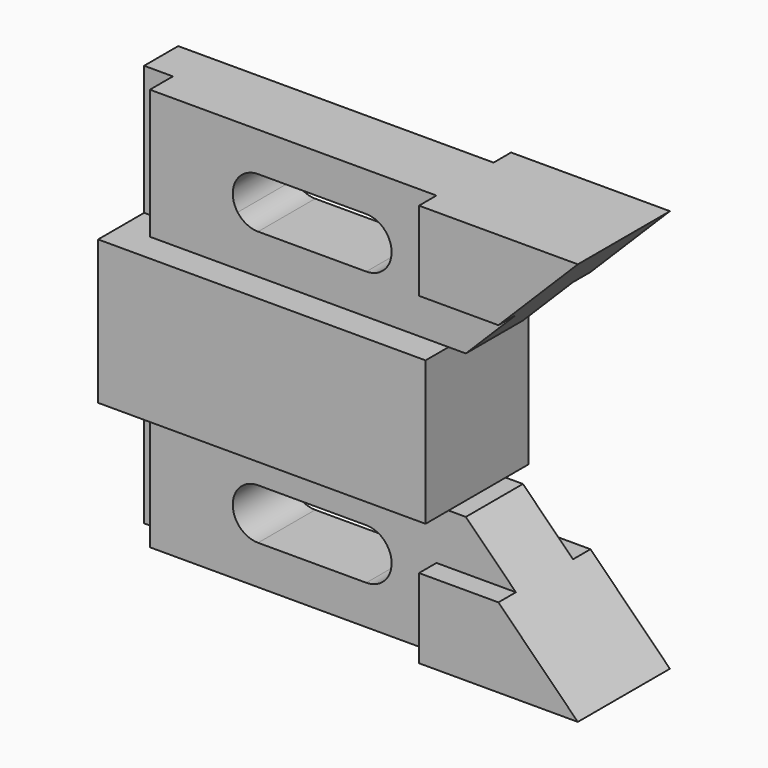
from build123d import *

# Parameters (mm, degrees)
F1_DEPTH  = 52.324
F3_DEPTH  = 26.925
F2_W      = 6.35
F2_H      = 17.526
F2_H_2    = 28.575
F2_H_3    = 11.049
F4_DEPTH  = 11.176
F6_DEPTH  = 26.925
F7_DEPTH  = 1.525
F8_W      = 69.596
F8_H      = 28.575
F9_DEPTH  = 6.35
F10_W     = 69.596
F10_H     = 28.575
F11_DEPTH = 6.35


with BuildPart() as f1:
    # F0 (on Right) → F1 (new body, symmetric)
    with BuildSketch(Plane.YZ):
        Polygon((-7.874, 26.924), (-7.874, 15.875), (7.874, 15.875), (7.874, 26.924), (12.7, 26.924), (12.7, 44.45), (-12.7, 44.45), (-12.7, 26.924), align=None)
        Polygon((-7.874, 15.875), (-14.224, 15.875), (-14.224, -15.875), (-7.874, -15.875), (7.874, -15.875), (14.224, -15.875), (14.224, 15.875), (7.874, 15.875), align=None)
        Polygon((7.874, -15.875), (-7.874, -15.875), (-7.874, -26.924), (-12.7, -26.924), (-12.7, -44.45), (12.7, -44.45), (12.7, -26.924), (7.874, -26.924), align=None)
    extrude(amount=F1_DEPTH, both=True)

    # F2 (on face) → F3 (cut, through all)
    with BuildSketch(Plane.XZ.offset(12.7)):
        with BuildLine():
            ThreePointArc((-22.098, 35.814), (-27.08184, 32.753268), (-26.606053, 26.924))
            Line((-26.606053, 26.924), (6.286053, 26.924))
            ThreePointArc((6.286053, 26.924), (6.76184, 32.753268), (1.778, 35.814))
            Line((1.778, 35.814), (-22.098, 35.814))
        make_face()
        with BuildLine():
            Line((6.286053, 26.924), (-26.606053, 26.924))
            ThreePointArc((-26.606053, 26.924), (-24.625268, 25.24216), (-22.098, 24.638))
            Line((-22.098, 24.638), (1.778, 24.638))
            ThreePointArc((1.778, 24.638), (4.305268, 25.24216), (6.286053, 26.924))
        make_face()
        with BuildLine():
            ThreePointArc((-22.098, -24.638), (-27.686, -30.226), (-22.098, -35.814))
            Line((-22.098, -35.814), (1.778, -35.814))
            ThreePointArc((1.778, -35.814), (7.366, -30.226), (1.778, -24.638))
            Line((1.778, -24.638), (-22.098, -24.638))
        make_face()
    extrude(amount=-F3_DEPTH, mode=Mode.SUBTRACT)

    # F2 (on face) → F4 (cut)
    with BuildSketch(Plane.XZ.offset(12.7)):
        with Locations((-49.149, 35.687)):
            Rectangle(F2_W, F2_H)
        with Locations((-49.149, -30.1625)):
            Rectangle(F2_W, F2_H_2)
        with Locations((-49.149, 21.3995)):
            Rectangle(F2_W, F2_H_3)
    extrude(amount=-F4_DEPTH, mode=Mode.SUBTRACT)

    # F5 (on face) → F6 (cut, through all)
    with BuildSketch(Plane.XZ.offset(12.7)):
        Polygon((52.324, -44.45), (52.324, 44.45), (23.749, 15.875), (19.939, 15.875), (19.939, 0), (19.939, -15.875), (23.749, -15.875), align=None)
    extrude(amount=-F6_DEPTH, mode=Mode.SUBTRACT)

    # F5 (on face) → F7 (cut, through all)
    with BuildSketch(Plane.XZ.offset(12.7)):
        Polygon((52.324, -44.45), (52.324, 44.45), (23.749, 15.875), (19.939, 15.875), (19.939, 0), (19.939, -15.875), (23.749, -15.875), align=None)
    extrude(amount=F7_DEPTH, mode=Mode.SUBTRACT)

    # F8 (on face) → F9 (cut)
    with BuildSketch(Plane.XZ.offset(14.224)):
        with Locations((-17.526, 30.1625)):
            Rectangle(F8_W, F8_H)
        with Locations((-17.526, -30.1625)):
            Rectangle(F8_W, F8_H)
    extrude(amount=-F9_DEPTH, mode=Mode.SUBTRACT)

    # F10 (on face) → F11 (cut)
    with BuildSketch(Plane(origin=(0, 14.224, 0), x_dir=(-1, 0, 0), z_dir=(0, 1, 0))):
        with Locations((17.526, 30.1625)):
            Rectangle(F10_W, F10_H)
        with Locations((17.526, -30.1625)):
            Rectangle(F10_W, F10_H)
    extrude(amount=-F11_DEPTH, mode=Mode.SUBTRACT)


solid = f1.part
